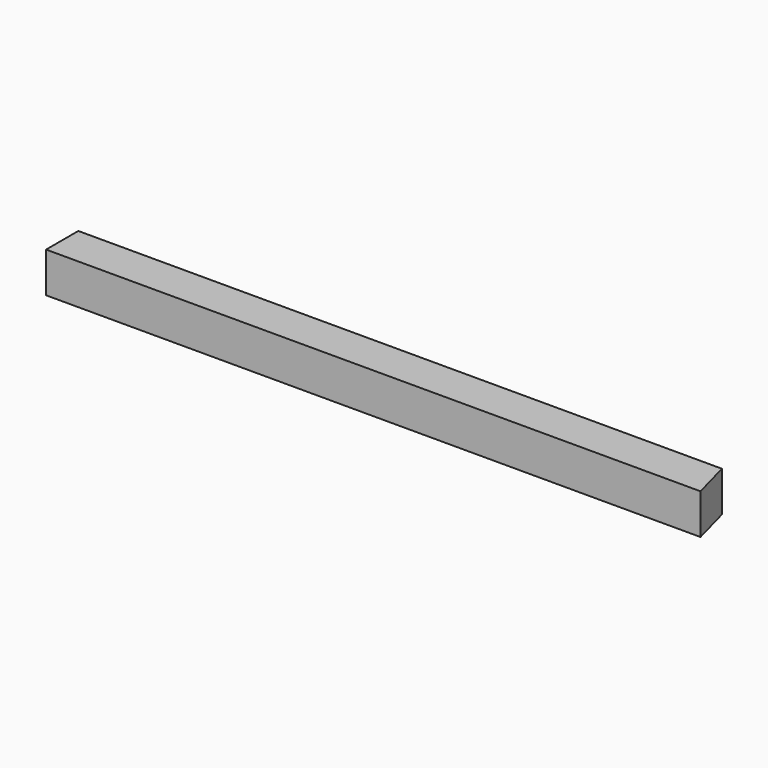
from build123d import *

# Parameters (mm, degrees)
F0_W     = 101.6
F0_H     = 101.6
F1_DEPTH = 1651
F3_DEPTH = 127


with BuildPart() as f1:
    # F0 (on Right) → F1 (new body)
    with BuildSketch(Plane.YZ):
        with Locations((50.8, -50.8)):
            Rectangle(F0_W, F0_H)
    extrude(amount=F1_DEPTH)

    # F2 (on Top) → F3 (cut)
    with BuildSketch(Plane.XY):
        Polygon((1651, 101.6), (1623.776362, 101.6), (1651, 0), align=None)
    extrude(amount=-F3_DEPTH, mode=Mode.SUBTRACT)


solid = f1.part
